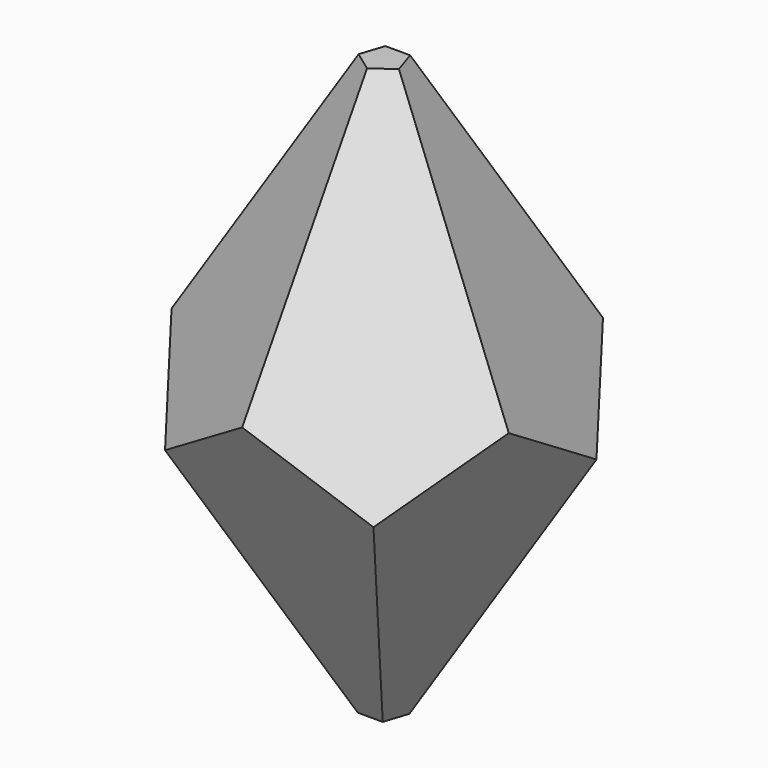
from build123d import *

# Parameters (mm, degrees)
F1_DEPTH = 584.2
F1_TAPER = -26.5650511771
F3_DEPTH = 584.2010001
F3_TAPER = 26.5650511771


with BuildPart() as f1:
    # F0 (on Top) → F1 (new body)
    with BuildSketch(Plane.XY):
        Polygon((12.7, -17.48005039), (20.5490316571, 6.6767851239), (0, 21.6065305321), (-20.5490316571, 6.6767851239), (-12.7, -17.48005039), align=None)
    extrude(amount=F1_DEPTH, taper=F1_TAPER)

    # F2 (on face) → F3 (cut, through all)
    with BuildSketch(Plane.XY.offset(584.2)):
        Polygon((0, 382.6619867598), (-363.9331760464, 118.2490570101), (-224.9230724304, -309.58005039), (224.9230724304, -309.58005039), (363.9331760464, 118.2490570101), align=None)
        Polygon((-12.7, 17.48005039), (12.7, 17.48005039), (20.5490316571, -6.6767851239), (0, -21.6065305321), (-20.5490316571, -6.6767851239), align=None, mode=Mode.SUBTRACT)
    extrude(amount=-F3_DEPTH, taper=F3_TAPER, mode=Mode.SUBTRACT)


solid = f1.part
